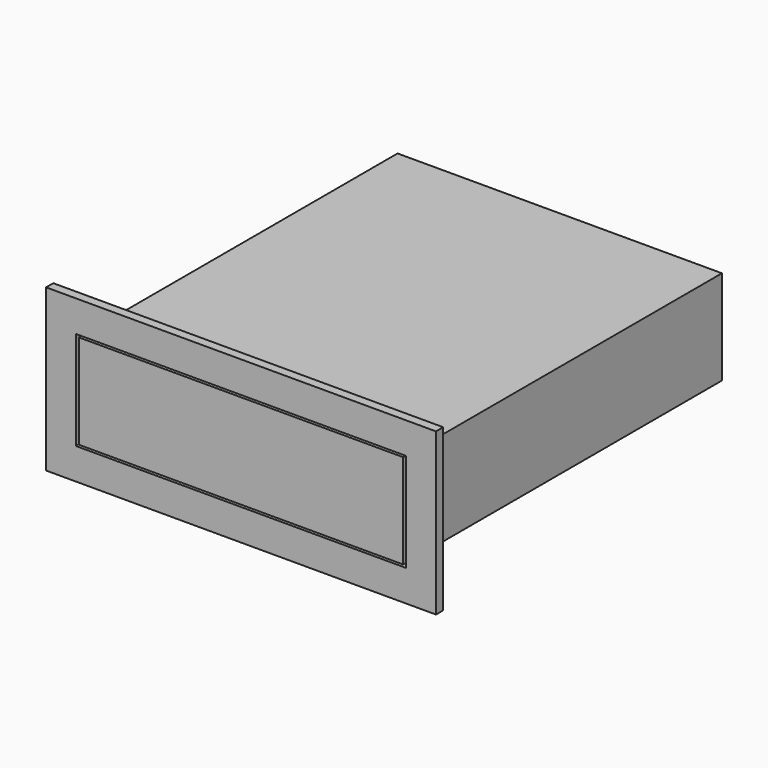
from build123d import *

# Parameters (mm, degrees)
F0_W     = 131.501586
F0_H     = 54.396238
F0_W_2   = 111.433074
F0_H_2   = 33.271484
F0_W_3   = 109.40183
F0_H_3   = 31.863112
F1_DEPTH = 1.524
F2_W     = 109.40183
F2_H     = 31.863112
F3_DEPTH = 131.318


with BuildPart() as f1:
    # F0 (on Front) → F1 (new body, symmetric)
    with BuildSketch(Plane.XZ):
        Rectangle(F0_W, F0_H)
        Rectangle(F0_W_2, F0_H_2, mode=Mode.SUBTRACT)
        Rectangle(F0_W_3, F0_H_3)
    extrude(amount=F1_DEPTH, both=True)

    # F2 (on face) → F3 (join)
    with BuildSketch(Plane(origin=(0, 1.524, 0), x_dir=(-1, 0, 0), z_dir=(0, 1, 0))):
        Rectangle(F2_W, F2_H)
    extrude(amount=F3_DEPTH)


solid = f1.part
